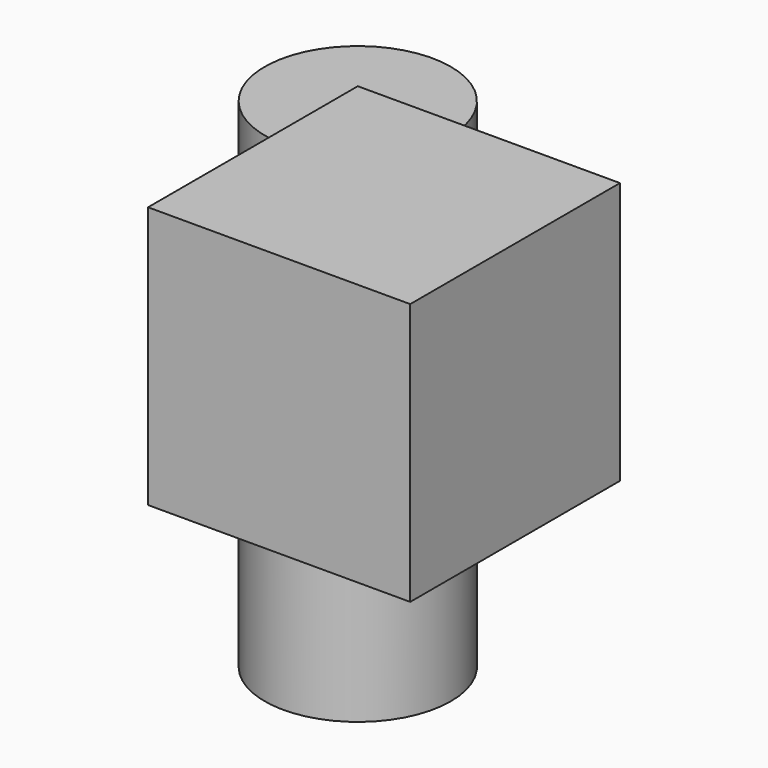
from build123d import *

# Parameters (mm, degrees)
F0_R     = 3.55
F0_R_2   = 0.018281
F1_DEPTH = 9.5
F2_W     = 10
F2_H     = 10
F3_DEPTH = 10


with BuildPart() as f1:
    # F0 (on Top) → F1 (new body, symmetric)
    with BuildSketch(Plane.XY):
        Circle(F0_R)
        Circle(F0_R_2, mode=Mode.SUBTRACT)
    extrude(amount=F1_DEPTH, both=True)


with BuildPart() as f3:
    # F2 (on Front) → F3 (new body)
    with BuildSketch(Plane.XZ):
        with Locations((5, 5)):
            Rectangle(F2_W, F2_H)
    extrude(amount=F3_DEPTH)


solid = Compound([f1.part, f3.part])
